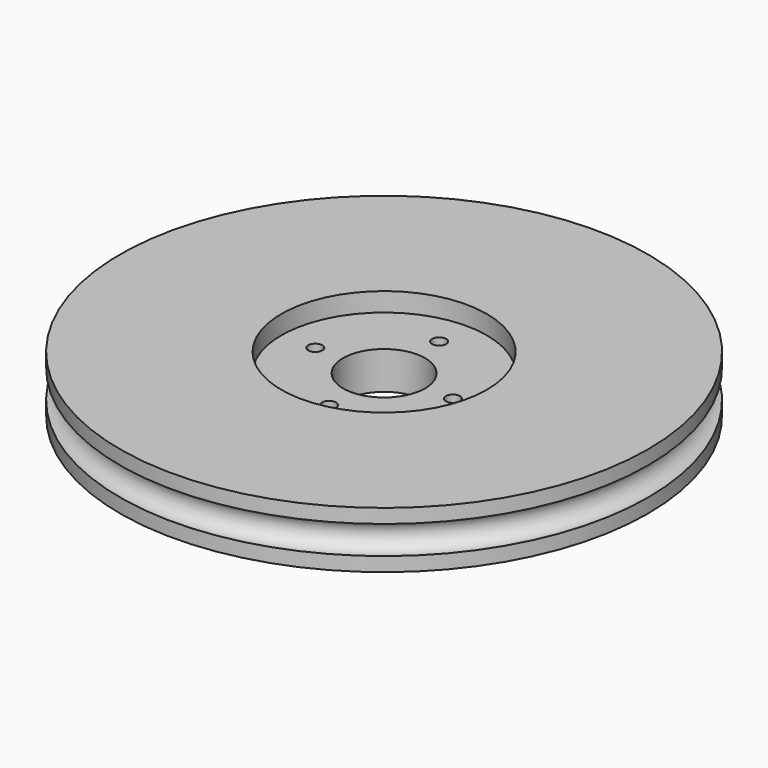
from build123d import *

# Parameters (mm, degrees)
CYLINDER003_R     = 0.75
CYLINDER003_DEPTH = 10
ARRAY_COUNT       = 4
CYLINDER002_R     = 4.35
CYLINDER002_DEPTH = 10
CYLINDER001_R     = 10.9
CYLINDER001_DEPTH = 10
TORUS_R           = 1.5
CYLINDER_R        = 28
CYLINDER_DEPTH    = 6


with BuildPart() as array:
    # Cylinder003 → Cylinder003 (new body)
    with BuildSketch(Plane(origin=(7.3, 0, -2), x_dir=(1, 0, 0), z_dir=(0, 0, 1))):
        Circle(CYLINDER003_R)
    extrude(amount=CYLINDER003_DEPTH)

    # Array: Array ×4 about axis
    array_axis = Axis((0, 0, 0), (0, 0, 1))


with BuildPart() as array_1:
    add(array.part)
    for i in range(1, ARRAY_COUNT):
        add(array.part.rotate(array_axis, i * 360 / ARRAY_COUNT))


with BuildPart() as cilindre002:
    # Cylinder002 → Cylinder002 (new body)
    with BuildSketch(Plane.XY.offset(-4)):
        Circle(CYLINDER002_R)
    extrude(amount=CYLINDER002_DEPTH)


with BuildPart() as cilindre001:
    # Cylinder001 → Cylinder001 (new body)
    with BuildSketch(Plane.XY.offset(4)):
        Circle(CYLINDER001_R)
    extrude(amount=CYLINDER001_DEPTH)


with BuildPart() as torus:
    # Torus → Torus (revolve)
    with BuildSketch(Plane(origin=(0, 0, 3), x_dir=(1, 0, 0), z_dir=(0, -1, 0))):
        with Locations((28, 0)):
            Circle(TORUS_R)
    revolve(axis=Axis((0, 0, 3), (0, 0, 1)))


with BuildPart() as cut003:
    # Cylinder → Cylinder (new body)
    with BuildSketch(Plane.XY):
        Circle(CYLINDER_R)
    extrude(amount=CYLINDER_DEPTH)

    # Cut: cut Torus
    add(torus.part, mode=Mode.SUBTRACT)

    # Cut001: cut Cilindre001
    add(cilindre001.part, mode=Mode.SUBTRACT)

    # Cut002: cut Cilindre002
    add(cilindre002.part, mode=Mode.SUBTRACT)

    # Cut003: cut Array
    add(array_1.part, mode=Mode.SUBTRACT)


solid = cut003.part
